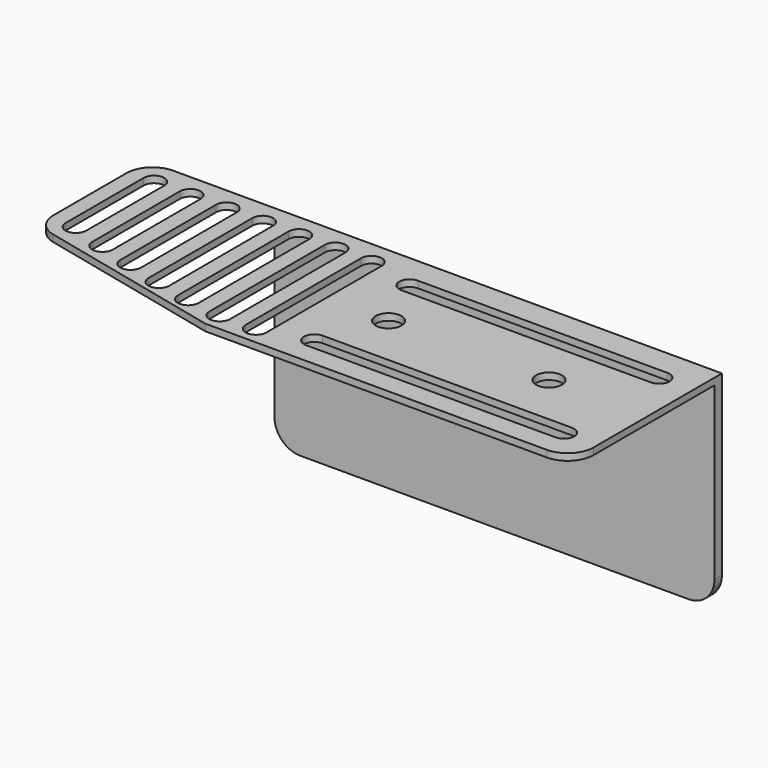
from build123d import *

# Parameters (mm, degrees)
F0_R     = 2.5
F0_W     = 85
F0_H     = 1.8
F1_DEPTH = 1.3
F2_DEPTH = 38
F3_R     = 5


with BuildPart() as f1:
    # F0 (on Top) → F1 (new body)
    with BuildSketch(Plane.XY):
        Polygon((-27.797528, 18), (-53.797528, 18), (-53.797528, -8.664937), (-13.797528, -18), (57.202472, -18), (57.202472, 16.2), (-27.797528, 16.2), align=None)
        with BuildLine():
            Line((-15.797528, -9.769044), (-15.797528, 13.37813))
            ThreePointArc((-15.797528, 13.37813), (-13.797528, 15.37813), (-11.797528, 13.37813))
            Line((-11.797528, 13.37813), (-11.797528, -14.504098))
            ThreePointArc((-11.797528, -14.504098), (-13.797528, -16.504098), (-15.797528, -14.504098))
            Line((-15.797528, -14.504098), (-15.797528, -9.769044))
        make_face(mode=Mode.SUBTRACT)
        with BuildLine():
            Line((-8.797528, -14.504098), (-8.797528, 13.37813))
            ThreePointArc((-8.797528, 13.37813), (-6.797528, 15.37813), (-4.797528, 13.37813))
            Line((-4.797528, 13.37813), (-4.797528, -14.504098))
            ThreePointArc((-4.797528, -14.504098), (-6.797528, -16.504098), (-8.797528, -14.504098))
        make_face(mode=Mode.SUBTRACT)
        with BuildLine():
            ThreePointArc((50.682452, -10), (52.682452, -12), (50.682452, -14))
            Line((50.682452, -14), (2.474277, -14))
            ThreePointArc((2.474277, -14), (0.474277, -12), (2.474277, -10))
            Line((2.474277, -10), (50.682452, -10))
        make_face(mode=Mode.SUBTRACT)
        with BuildLine():
            Line((-50.797528, -5.494929), (-50.797528, 13.37813))
            ThreePointArc((-50.797528, 13.37813), (-48.797528, 15.37813), (-46.797528, 13.37813))
            Line((-46.797528, 13.37813), (-46.797528, -5.494929))
            ThreePointArc((-46.797528, -5.494929), (-48.797528, -7.494929), (-50.797528, -5.494929))
        make_face(mode=Mode.SUBTRACT)
        with BuildLine():
            Line((-43.797528, -7.752692), (-43.797528, 13.37813))
            ThreePointArc((-43.797528, 13.37813), (-41.797528, 15.37813), (-39.797528, 13.37813))
            Line((-39.797528, 13.37813), (-39.797528, -7.752692))
            ThreePointArc((-39.797528, -7.752692), (-41.797528, -9.815282), (-43.797528, -7.752692))
        make_face(mode=Mode.SUBTRACT)
        with BuildLine():
            Line((-36.797528, -9.769044), (-36.797528, 13.37813))
            ThreePointArc((-36.797528, 13.37813), (-34.797528, 15.37813), (-32.797528, 13.37813))
            Line((-32.797528, 13.37813), (-32.797528, -9.769044))
            ThreePointArc((-32.797528, -9.769044), (-34.797528, -11.769044), (-36.797528, -9.769044))
        make_face(mode=Mode.SUBTRACT)
        with BuildLine():
            ThreePointArc((-29.797528, 13.37813), (-27.797528, 15.37813), (-25.797528, 13.37813))
            Line((-25.797528, 13.37813), (-25.768946, -11.704986))
            ThreePointArc((-25.768946, -11.704986), (-27.780942, -13.721572), (-29.797528, -11.709576))
            Line((-29.797528, -11.709576), (-29.797528, 13.37813))
        make_face(mode=Mode.SUBTRACT)
        with BuildLine():
            ThreePointArc((-22.797528, 13.37813), (-20.797528, 15.37813), (-18.797528, 13.37813))
            Line((-18.797528, 13.37813), (-18.797528, -13.363477))
            ThreePointArc((-18.797528, -13.363477), (-20.797528, -15.363477), (-22.797528, -13.363477))
            Line((-22.797528, -13.363477), (-22.797528, 13.37813))
        make_face(mode=Mode.SUBTRACT)
        with Locations((7.202472, 0)):
            Circle(F0_R, mode=Mode.SUBTRACT)
        with Locations((38.202472, 0)):
            Circle(F0_R, mode=Mode.SUBTRACT)
        with BuildLine():
            ThreePointArc((2.474277, 9), (0.474277, 11), (2.474277, 13))
            Line((2.474277, 13), (50.682452, 13))
            ThreePointArc((50.682452, 13), (52.682452, 11), (50.682452, 9))
            Line((50.682452, 9), (2.474277, 9))
        make_face(mode=Mode.SUBTRACT)
        with Locations((14.702472, 17.1)):
            Rectangle(F0_W, F0_H)
    extrude(amount=F1_DEPTH)

    # F0 (on Top) → F2 (join)
    with BuildSketch(Plane.XY):
        with Locations((14.702472, 17.1)):
            Rectangle(F0_W, F0_H)
    extrude(amount=-F2_DEPTH)

    # F3
    f3_edges = [f1.edges().sort_by_distance(p)[0] for p in [
        (-53.797528, 18, 0.65),
        (-53.797528, -8.664937, 0.65),
        (57.202472, -18, 0.65),
        (57.202472, 17.1, -38),
        (-27.797528, 17.1, -38),
    ]]
    fillet(f3_edges, radius=F3_R)


solid = f1.part
